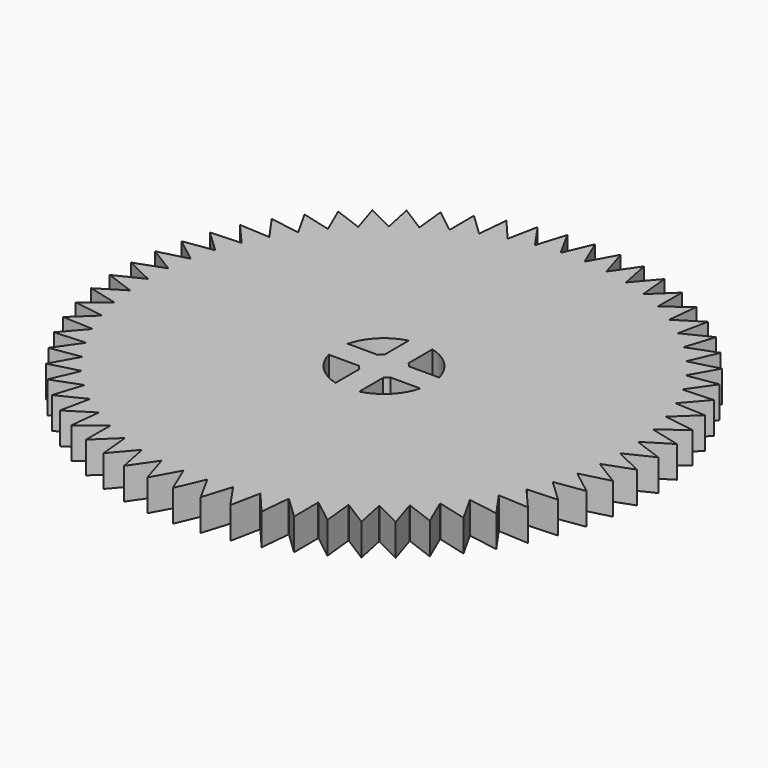
from build123d import *

# Parameters (mm, degrees)
F1_DEPTH = 4
F3_DEPTH = 4


with BuildPart() as f1:
    # F0 (on Top) → F1 (new body)
    with BuildSketch(Plane.XY):
        with BuildLine():
            ThreePointArc((29.9999936626, -0.019499772), (29.9999984157, -0.0097498865), (30, 0))
            ThreePointArc((30, 0), (29.9999984157, 0.0097498865), (29.9999936626, 0.019499772))
            ThreePointArc((29.9999936626, 0.019499772), (29.9614952151, 1.5194750652), (29.8480461561, 3.0156492935))
            ThreePointArc((29.8480461561, 3.0156492935), (29.8460797018, 3.0350496596), (29.8441006377, 3.0544487435))
            ThreePointArc((29.8441006377, 3.0544487435), (29.6540497298, 4.5428333251), (29.3898173052, 6.0198537164))
            ThreePointArc((29.3898173052, 6.0198537164), (29.3858982376, 6.0389556027), (29.3819667547, 6.0580549375))
            ThreePointArc((29.3819667547, 6.0580549375), (29.042313566, 7.5195759678), (28.6300091579, 8.9622862941))
            ThreePointArc((28.6300091579, 8.9622862941), (28.624177692, 8.9808936892), (28.6183341326, 8.99949729))
            ThreePointArc((28.6183341326, 8.99949729), (28.1325639644, 10.4191575853), (27.5764183741, 11.8127536864))
            ThreePointArc((27.5764183741, 11.8127536864), (27.5687343486, 11.8306756534), (27.5610386756, 11.848592622))
            ThreePointArc((27.5610386756, 11.848592622), (26.9341361871, 13.2118245467), (26.2398562209, 14.5420062407))
            ThreePointArc((26.2398562209, 14.5420062407), (26.2303984843, 14.5590588759), (26.2209296657, 14.5761053601))
            ThreePointArc((26.2209296657, 14.5761053601), (25.4593277248, 15.8689203098), (24.6340376347, 17.1220381325))
            ThreePointArc((24.6340376347, 17.1220381325), (24.6229032362, 17.1380464528), (24.6117584348, 17.1540475325))
            ThreePointArc((24.6117584348, 17.1540475325), (23.7232721081, 18.3631794764), (22.7754404872, 19.5263747433))
            ThreePointArc((22.7754404872, 19.5263747433), (22.7627436808, 19.5411744817), (22.7500372574, 19.5559659641))
            ThreePointArc((22.7500372574, 19.5559659641), (21.7437836169, 20.6690075723), (20.6831365001, 21.7303443258))
            ThreePointArc((20.6831365001, 21.7303443258), (20.6690075723, 21.7437836169), (20.6548699119, 21.7572137214))
            ThreePointArc((20.6548699119, 21.7572137214), (19.5411744817, 22.7627436808), (18.3785955439, 23.7113311696))
            ThreePointArc((18.3785955439, 23.7113311696), (18.3631794764, 23.7232721081), (18.3477556507, 23.7352030238))
            ThreePointArc((18.3477556507, 23.7352030238), (17.1380464528, 24.6229032362), (15.8854653271, 25.4490076691))
            ThreePointArc((15.8854653271, 25.4490076691), (15.8689203098, 25.4593277248), (15.852368588, 25.4696370243))
            ThreePointArc((15.852368588, 25.4696370243), (14.5590588759, 26.2303984843), (13.2293287396, 26.9255429119))
            ThreePointArc((13.2293287396, 26.9255429119), (13.2118245467, 26.9341361871), (13.194314772, 26.942718083))
            ThreePointArc((13.194314772, 26.942718083), (11.8306756534, 27.5687343486), (10.4374413371, 28.1257856483))
            ThreePointArc((10.4374413371, 28.1257856483), (10.4191575853, 28.1325639644), (10.4008694316, 28.1393303948))
            ThreePointArc((10.4008694316, 28.1393303948), (8.9808936892, 28.624177692), (7.5384516624, 29.0374197637))
            ThreePointArc((7.5384516624, 29.0374197637), (7.5195759678, 29.042313566), (7.5006970962, 29.0471950982))
            ThreePointArc((7.5006970962, 29.0471950982), (6.0389556027, 29.3858982376), (4.5621072724, 29.6510906584))
            ThreePointArc((4.5621072724, 29.6510906584), (4.5428333251, 29.6540497298), (4.5235574585, 29.6569962727))
            ThreePointArc((4.5235574585, 29.6569962727), (3.0350496596, 29.8460797018), (1.5389494884, 29.9605012387))
            ThreePointArc((1.5389494884, 29.9605012387), (1.5194750652, 29.9614952151), (1.5, 29.9624765332))
            ThreePointArc((1.5, 29.9624765332), (0, 30), (-1.5, 29.9624765332))
            ThreePointArc((-1.5, 29.9624765332), (-1.5194750652, 29.9614952151), (-1.5389494884, 29.9605012387))
            ThreePointArc((-1.5389494884, 29.9605012387), (-3.0350496596, 29.8460797018), (-4.5235574585, 29.6569962727))
            ThreePointArc((-4.5235574585, 29.6569962727), (-4.5428333251, 29.6540497298), (-4.5621072724, 29.6510906584))
            ThreePointArc((-4.5621072724, 29.6510906584), (-6.0389556027, 29.3858982376), (-7.5006970962, 29.0471950982))
            ThreePointArc((-7.5006970962, 29.0471950982), (-7.5195759678, 29.042313566), (-7.5384516624, 29.0374197637))
            ThreePointArc((-7.5384516624, 29.0374197637), (-8.9808936892, 28.624177692), (-10.4008694316, 28.1393303948))
            ThreePointArc((-10.4008694316, 28.1393303948), (-10.4191575853, 28.1325639644), (-10.4374413371, 28.1257856483))
            ThreePointArc((-10.4374413371, 28.1257856483), (-11.8306756534, 27.5687343486), (-13.194314772, 26.942718083))
            ThreePointArc((-13.194314772, 26.942718083), (-13.2118245467, 26.9341361871), (-13.2293287396, 26.9255429119))
            ThreePointArc((-13.2293287396, 26.9255429119), (-14.5590588759, 26.2303984843), (-15.852368588, 25.4696370243))
            ThreePointArc((-15.852368588, 25.4696370243), (-15.8689203098, 25.4593277248), (-15.8854653271, 25.4490076691))
            ThreePointArc((-15.8854653271, 25.4490076691), (-17.1380464528, 24.6229032362), (-18.3477556507, 23.7352030238))
            ThreePointArc((-18.3477556507, 23.7352030238), (-18.3631794764, 23.7232721081), (-18.3785955439, 23.7113311696))
            ThreePointArc((-18.3785955439, 23.7113311696), (-19.5411744817, 22.7627436808), (-20.6548699119, 21.7572137214))
            ThreePointArc((-20.6548699119, 21.7572137214), (-20.6690075723, 21.7437836169), (-20.6831365001, 21.7303443258))
            ThreePointArc((-20.6831365001, 21.7303443258), (-21.7437836169, 20.6690075723), (-22.7500372574, 19.5559659641))
            ThreePointArc((-22.7500372574, 19.5559659641), (-22.7627436808, 19.5411744817), (-22.7754404872, 19.5263747433))
            ThreePointArc((-22.7754404872, 19.5263747433), (-23.7232721081, 18.3631794764), (-24.6117584348, 17.1540475325))
            ThreePointArc((-24.6117584348, 17.1540475325), (-24.6229032362, 17.1380464528), (-24.6340376347, 17.1220381325))
            ThreePointArc((-24.6340376347, 17.1220381325), (-25.4593277248, 15.8689203098), (-26.2209296657, 14.5761053601))
            ThreePointArc((-26.2209296657, 14.5761053601), (-26.2303984843, 14.5590588759), (-26.2398562209, 14.5420062407))
            ThreePointArc((-26.2398562209, 14.5420062407), (-26.9341361871, 13.2118245467), (-27.5610386756, 11.848592622))
            ThreePointArc((-27.5610386756, 11.848592622), (-27.5687343486, 11.8306756534), (-27.5764183741, 11.8127536864))
            ThreePointArc((-27.5764183741, 11.8127536864), (-28.1325639644, 10.4191575853), (-28.6183341326, 8.99949729))
            ThreePointArc((-28.6183341326, 8.99949729), (-28.624177692, 8.9808936892), (-28.6300091579, 8.9622862941))
            ThreePointArc((-28.6300091579, 8.9622862941), (-29.042313566, 7.5195759678), (-29.3819667547, 6.0580549375))
            ThreePointArc((-29.3819667547, 6.0580549375), (-29.3858982376, 6.0389556027), (-29.3898173052, 6.0198537164))
            ThreePointArc((-29.3898173052, 6.0198537164), (-29.6540497298, 4.5428333251), (-29.8441006377, 3.0544487435))
            ThreePointArc((-29.8441006377, 3.0544487435), (-29.8460797018, 3.0350496596), (-29.8480461561, 3.0156492935))
            ThreePointArc((-29.8480461561, 3.0156492935), (-29.9614952151, 1.5194750652), (-29.9999936626, 0.019499772))
            ThreePointArc((-29.9999936626, 0.019499772), (-30, 0), (-29.9999936626, -0.019499772))
            ThreePointArc((-29.9999936626, -0.019499772), (-29.9614952151, -1.5194750652), (-29.8480461561, -3.0156492935))
            ThreePointArc((-29.8480461561, -3.0156492935), (-29.8460797018, -3.0350496596), (-29.8441006377, -3.0544487435))
            ThreePointArc((-29.8441006377, -3.0544487435), (-29.6540497298, -4.5428333251), (-29.3898173052, -6.0198537164))
            ThreePointArc((-29.3898173052, -6.0198537164), (-29.3858982376, -6.0389556027), (-29.3819667547, -6.0580549375))
            ThreePointArc((-29.3819667547, -6.0580549375), (-29.042313566, -7.5195759678), (-28.6300091579, -8.9622862941))
            ThreePointArc((-28.6300091579, -8.9622862941), (-28.624177692, -8.9808936892), (-28.6183341326, -8.99949729))
            ThreePointArc((-28.6183341326, -8.99949729), (-28.1325639644, -10.4191575853), (-27.5764183741, -11.8127536864))
            ThreePointArc((-27.5764183741, -11.8127536864), (-27.5687343486, -11.8306756534), (-27.5610386756, -11.848592622))
            ThreePointArc((-27.5610386756, -11.848592622), (-26.9341361871, -13.2118245467), (-26.2398562209, -14.5420062407))
            ThreePointArc((-26.2398562209, -14.5420062407), (-26.2303984843, -14.5590588759), (-26.2209296657, -14.5761053601))
            ThreePointArc((-26.2209296657, -14.5761053601), (-25.4593277248, -15.8689203098), (-24.6340376347, -17.1220381325))
            ThreePointArc((-24.6340376347, -17.1220381325), (-24.6229032362, -17.1380464528), (-24.6117584348, -17.1540475325))
            ThreePointArc((-24.6117584348, -17.1540475325), (-23.7232721081, -18.3631794764), (-22.7754404872, -19.5263747433))
            ThreePointArc((-22.7754404872, -19.5263747433), (-22.7627436808, -19.5411744817), (-22.7500372574, -19.5559659641))
            ThreePointArc((-22.7500372574, -19.5559659641), (-21.7437836169, -20.6690075723), (-20.6831365001, -21.7303443258))
            ThreePointArc((-20.6831365001, -21.7303443258), (-20.6690075723, -21.7437836169), (-20.6548699119, -21.7572137214))
            ThreePointArc((-20.6548699119, -21.7572137214), (-19.5411744817, -22.7627436808), (-18.3785955439, -23.7113311696))
            ThreePointArc((-18.3785955439, -23.7113311696), (-18.3631794764, -23.7232721081), (-18.3477556507, -23.7352030238))
            ThreePointArc((-18.3477556507, -23.7352030238), (-17.1380464528, -24.6229032362), (-15.8854653271, -25.4490076691))
            ThreePointArc((-15.8854653271, -25.4490076691), (-15.8689203098, -25.4593277248), (-15.852368588, -25.4696370243))
            ThreePointArc((-15.852368588, -25.4696370243), (-14.5590588759, -26.2303984843), (-13.2293287396, -26.9255429119))
            ThreePointArc((-13.2293287396, -26.9255429119), (-13.2118245467, -26.9341361871), (-13.194314772, -26.942718083))
            ThreePointArc((-13.194314772, -26.942718083), (-11.8306756534, -27.5687343486), (-10.4374413371, -28.1257856483))
            ThreePointArc((-10.4374413371, -28.1257856483), (-10.4191575853, -28.1325639644), (-10.4008694316, -28.1393303948))
            ThreePointArc((-10.4008694316, -28.1393303948), (-8.9808936892, -28.624177692), (-7.5384516624, -29.0374197637))
            ThreePointArc((-7.5384516624, -29.0374197637), (-7.5195759678, -29.042313566), (-7.5006970962, -29.0471950982))
            ThreePointArc((-7.5006970962, -29.0471950982), (-6.0389556027, -29.3858982376), (-4.5621072724, -29.6510906584))
            ThreePointArc((-4.5621072724, -29.6510906584), (-4.5428333251, -29.6540497298), (-4.5235574585, -29.6569962727))
            ThreePointArc((-4.5235574585, -29.6569962727), (-3.0350496596, -29.8460797018), (-1.5389494884, -29.9605012387))
            ThreePointArc((-1.5389494884, -29.9605012387), (-1.5194750652, -29.9614952151), (-1.5, -29.9624765332))
            ThreePointArc((-1.5, -29.9624765332), (0, -30), (1.5, -29.9624765332))
            ThreePointArc((1.5, -29.9624765332), (1.5194750652, -29.9614952151), (1.5389494884, -29.9605012387))
            ThreePointArc((1.5389494884, -29.9605012387), (3.0350496596, -29.8460797018), (4.5235574585, -29.6569962727))
            ThreePointArc((4.5235574585, -29.6569962727), (4.5428333251, -29.6540497298), (4.5621072724, -29.6510906584))
            ThreePointArc((4.5621072724, -29.6510906584), (6.0389556027, -29.3858982376), (7.5006970962, -29.0471950982))
            ThreePointArc((7.5006970962, -29.0471950982), (7.5195759678, -29.042313566), (7.5384516624, -29.0374197637))
            ThreePointArc((7.5384516624, -29.0374197637), (8.9808936892, -28.624177692), (10.4008694316, -28.1393303948))
            ThreePointArc((10.4008694316, -28.1393303948), (10.4191575853, -28.1325639644), (10.4374413371, -28.1257856483))
            ThreePointArc((10.4374413371, -28.1257856483), (11.8306756534, -27.5687343486), (13.194314772, -26.942718083))
            ThreePointArc((13.194314772, -26.942718083), (13.2118245467, -26.9341361871), (13.2293287396, -26.9255429119))
            ThreePointArc((13.2293287396, -26.9255429119), (14.5590588759, -26.2303984843), (15.852368588, -25.4696370243))
            ThreePointArc((15.852368588, -25.4696370243), (15.8689203098, -25.4593277248), (15.8854653271, -25.4490076691))
            ThreePointArc((15.8854653271, -25.4490076691), (17.1380464528, -24.6229032362), (18.3477556507, -23.7352030238))
            ThreePointArc((18.3477556507, -23.7352030238), (18.3631794764, -23.7232721081), (18.3785955439, -23.7113311696))
            ThreePointArc((18.3785955439, -23.7113311696), (19.5411744817, -22.7627436808), (20.6548699119, -21.7572137214))
            ThreePointArc((20.6548699119, -21.7572137214), (20.6690075723, -21.7437836169), (20.6831365001, -21.7303443258))
            ThreePointArc((20.6831365001, -21.7303443258), (21.7437836169, -20.6690075723), (22.7500372574, -19.5559659641))
            ThreePointArc((22.7500372574, -19.5559659641), (22.7627436808, -19.5411744817), (22.7754404872, -19.5263747433))
            ThreePointArc((22.7754404872, -19.5263747433), (23.7232721081, -18.3631794764), (24.6117584348, -17.1540475325))
            ThreePointArc((24.6117584348, -17.1540475325), (24.6229032362, -17.1380464528), (24.6340376347, -17.1220381325))
            ThreePointArc((24.6340376347, -17.1220381325), (25.4593277248, -15.8689203098), (26.2209296657, -14.5761053601))
            ThreePointArc((26.2209296657, -14.5761053601), (26.2303984843, -14.5590588759), (26.2398562209, -14.5420062407))
            ThreePointArc((26.2398562209, -14.5420062407), (26.9341361871, -13.2118245467), (27.5610386756, -11.848592622))
            ThreePointArc((27.5610386756, -11.848592622), (27.5687343486, -11.8306756534), (27.5764183741, -11.8127536864))
            ThreePointArc((27.5764183741, -11.8127536864), (28.1325639644, -10.4191575853), (28.6183341326, -8.99949729))
            ThreePointArc((28.6183341326, -8.99949729), (28.624177692, -8.9808936892), (28.6300091579, -8.9622862941))
            ThreePointArc((28.6300091579, -8.9622862941), (29.042313566, -7.5195759678), (29.3819667547, -6.0580549375))
            ThreePointArc((29.3819667547, -6.0580549375), (29.3858982376, -6.0389556027), (29.3898173052, -6.0198537164))
            ThreePointArc((29.3898173052, -6.0198537164), (29.6540497298, -4.5428333251), (29.8441006377, -3.0544487435))
            ThreePointArc((29.8441006377, -3.0544487435), (29.8460797018, -3.0350496596), (29.8480461561, -3.0156492935))
            ThreePointArc((29.8480461561, -3.0156492935), (29.9614952151, -1.5194750652), (29.9999936626, -0.019499772))
        make_face()
        with BuildLine():
            ThreePointArc((29.8480461561, 3.0156492935), (29.9614952151, 1.5194750652), (29.9999936626, 0.019499772))
            Line((29.9999936626, 0.019499772), (33.4570029902, 1.6967471561))
            Line((33.4570029902, 1.6967471561), (29.8480461561, 3.0156492935))
        make_face()
        with BuildLine():
            Line((33.4570029902, -1.6967471561), (29.9999936626, -0.019499772))
            ThreePointArc((29.9999936626, -0.019499772), (29.9614952151, -1.5194750652), (29.8480461561, -3.0156492935))
            Line((29.8480461561, -3.0156492935), (33.4570029902, -1.6967471561))
        make_face()
        with BuildLine():
            ThreePointArc((29.3898173052, 6.0198537164), (29.6540497298, 4.5428333251), (29.8441006377, 3.0544487435))
            Line((29.8441006377, 3.0544487435), (33.113688865, 5.0728305464))
            Line((33.113688865, 5.0728305464), (29.3898173052, 6.0198537164))
        make_face()
        with BuildLine():
            Line((33.113688865, -5.0728305464), (29.8441006377, -3.0544487435))
            ThreePointArc((29.8441006377, -3.0544487435), (29.6540497298, -4.5428333251), (29.3898173052, -6.0198537164))
            Line((29.3898173052, -6.0198537164), (33.113688865, -5.0728305464))
        make_face()
        with BuildLine():
            ThreePointArc((28.6300091579, 8.9622862941), (29.042313566, 7.5195759678), (29.3819667547, 6.0580549375))
            Line((29.3819667547, 6.0580549375), (32.430583482, 8.3968598307))
            Line((32.430583482, 8.3968598307), (28.6300091579, 8.9622862941))
        make_face()
        with BuildLine():
            Line((32.430583482, -8.3968598307), (29.3819667547, -6.0580549375))
            ThreePointArc((29.3819667547, -6.0580549375), (29.042313566, -7.5195759678), (28.6300091579, -8.9622862941))
            Line((28.6300091579, -8.9622862941), (32.430583482, -8.3968598307))
        make_face()
        with BuildLine():
            ThreePointArc((27.5764183741, 11.8127536864), (28.1325639644, 10.4191575853), (28.6183341326, 8.99949729))
            Line((28.6183341326, 8.99949729), (31.4146964269, 11.6347259703))
            Line((31.4146964269, 11.6347259703), (27.5764183741, 11.8127536864))
        make_face()
        with BuildLine():
            Line((31.4146964269, -11.6347259703), (28.6183341326, -8.99949729))
            ThreePointArc((28.6183341326, -8.99949729), (28.1325639644, -10.4191575853), (27.5764183741, -11.8127536864))
            Line((27.5764183741, -11.8127536864), (31.4146964269, -11.6347259703))
        make_face()
        with BuildLine():
            ThreePointArc((26.2398562209, 14.5420062407), (26.9341361871, 13.2118245467), (27.5610386756, 11.848592622))
            Line((27.5610386756, 11.848592622), (30.0764520756, 14.7532040772))
            Line((30.0764520756, 14.7532040772), (26.2398562209, 14.5420062407))
        make_face()
        with BuildLine():
            Line((30.0764520756, -14.7532040772), (27.5610386756, -11.848592622))
            ThreePointArc((27.5610386756, -11.848592622), (26.9341361871, -13.2118245467), (26.2398562209, -14.5420062407))
            Line((26.2398562209, -14.5420062407), (30.0764520756, -14.7532040772))
        make_face()
        with BuildLine():
            ThreePointArc((24.6340376347, 17.1220381325), (25.4593277248, 15.8689203098), (26.2209296657, 14.5761053601))
            Line((26.2209296657, 14.5761053601), (28.4295826261, 17.720294346))
            Line((28.4295826261, 17.720294346), (24.6340376347, 17.1220381325))
        make_face()
        with BuildLine():
            Line((28.4295826261, -17.720294346), (26.2209296657, -14.5761053601))
            ThreePointArc((26.2209296657, -14.5761053601), (25.4593277248, -15.8689203098), (24.6340376347, -17.1220381325))
            Line((24.6340376347, -17.1220381325), (28.4295826261, -17.720294346))
        make_face()
        with BuildLine():
            ThreePointArc((22.7754404872, 19.5263747433), (23.7232721081, 18.3631794764), (24.6117584348, 17.1540475325))
            Line((24.6117584348, 17.1540475325), (26.4909871874, 20.5055504153))
            Line((26.4909871874, 20.5055504153), (22.7754404872, 19.5263747433))
        make_face()
        with BuildLine():
            Line((26.4909871874, -20.5055504153), (24.6117584348, -17.1540475325))
            ThreePointArc((24.6117584348, -17.1540475325), (23.7232721081, -18.3631794764), (22.7754404872, -19.5263747433))
            Line((22.7754404872, -19.5263747433), (26.4909871874, -20.5055504153))
        make_face()
        with BuildLine():
            ThreePointArc((20.6831365001, 21.7303443258), (21.7437836169, 20.6690075723), (22.7500372574, 19.5559659641))
            Line((22.7500372574, 19.5559659641), (24.2805583722, 23.080391789))
            Line((24.2805583722, 23.080391789), (20.6831365001, 21.7303443258))
        make_face()
        with BuildLine():
            Line((24.2805583722, -23.080391789), (22.7500372574, -19.5559659641))
            ThreePointArc((22.7500372574, -19.5559659641), (21.7437836169, -20.6690075723), (20.6831365001, -21.7303443258))
            Line((20.6831365001, -21.7303443258), (24.2805583722, -23.080391789))
        make_face()
        with BuildLine():
            ThreePointArc((18.3785955439, 23.7113311696), (19.5411744817, 22.7627436808), (20.6548699119, 21.7572137214))
            Line((20.6548699119, 21.7572137214), (21.8209781712, 25.4183971102))
            Line((21.8209781712, 25.4183971102), (18.3785955439, 23.7113311696))
        make_face()
        with BuildLine():
            Line((21.8209781712, -25.4183971102), (20.6548699119, -21.7572137214))
            ThreePointArc((20.6548699119, -21.7572137214), (19.5411744817, -22.7627436808), (18.3785955439, -23.7113311696))
            Line((18.3785955439, -23.7113311696), (21.8209781712, -25.4183971102))
        make_face()
        with BuildLine():
            ThreePointArc((15.8854653271, 25.4490076691), (17.1380464528, 24.6229032362), (18.3477556507, 23.7352030238))
            Line((18.3477556507, 23.7352030238), (19.1374852057, 27.4955752804))
            Line((19.1374852057, 27.4955752804), (15.8854653271, 25.4490076691))
        make_face()
        with BuildLine():
            Line((19.1374852057, -27.4955752804), (18.3477556507, -23.7352030238))
            ThreePointArc((18.3477556507, -23.7352030238), (17.1380464528, -24.6229032362), (15.8854653271, -25.4490076691))
            Line((15.8854653271, -25.4490076691), (19.1374852057, -27.4955752804))
        make_face()
        with BuildLine():
            ThreePointArc((13.2293287396, 26.9255429119), (14.5590588759, 26.2303984843), (15.852368588, 25.4696370243))
            Line((15.852368588, 25.4696370243), (16.2576157448, 29.2906116408))
            Line((16.2576157448, 29.2906116408), (13.2293287396, 26.9255429119))
        make_face()
        with BuildLine():
            Line((16.2576157448, -29.2906116408), (15.852368588, -25.4696370243))
            ThreePointArc((15.852368588, -25.4696370243), (14.5590588759, -26.2303984843), (13.2293287396, -26.9255429119))
            Line((13.2293287396, -26.9255429119), (16.2576157448, -29.2906116408))
        make_face()
        with BuildLine():
            ThreePointArc((10.4374413371, 28.1257856483), (11.8306756534, 27.5687343486), (13.194314772, 26.942718083))
            Line((13.194314772, 26.942718083), (13.2109211463, 30.7850866893))
            Line((13.2109211463, 30.7850866893), (10.4374413371, 28.1257856483))
        make_face()
        with BuildLine():
            Line((13.2109211463, -30.7850866893), (13.194314772, -26.942718083))
            ThreePointArc((13.194314772, -26.942718083), (11.8306756534, -27.5687343486), (10.4374413371, -28.1257856483))
            Line((10.4374413371, -28.1257856483), (13.2109211463, -30.7850866893))
        make_face()
        with BuildLine():
            ThreePointArc((7.5384516624, 29.0374197637), (8.9808936892, 28.624177692), (10.4008694316, 28.1393303948))
            Line((10.4008694316, 28.1393303948), (10.0286646196, 31.9636650894))
            Line((10.0286646196, 31.9636650894), (7.5384516624, 29.0374197637))
        make_face()
        with BuildLine():
            Line((10.0286646196, -31.9636650894), (10.4008694316, -28.1393303948))
            ThreePointArc((10.4008694316, -28.1393303948), (8.9808936892, -28.624177692), (7.5384516624, -29.0374197637))
            Line((7.5384516624, -29.0374197637), (10.0286646196, -31.9636650894))
        make_face()
        with BuildLine():
            ThreePointArc((4.5621072724, 29.6510906584), (6.0389556027, 29.3858982376), (7.5006970962, 29.0471950982))
            Line((7.5006970962, 29.0471950982), (6.743500423, 32.814253032))
            Line((6.743500423, 32.814253032), (4.5621072724, 29.6510906584))
        make_face()
        with BuildLine():
            Line((6.743500423, -32.814253032), (7.5006970962, -29.0471950982))
            ThreePointArc((7.5006970962, -29.0471950982), (6.0389556027, -29.3858982376), (4.5621072724, -29.6510906584))
            Line((4.5621072724, -29.6510906584), (6.743500423, -32.814253032))
        make_face()
        with BuildLine():
            ThreePointArc((1.5389494884, 29.9605012387), (3.0350496596, 29.8460797018), (4.5235574585, 29.6569962727))
            Line((4.5235574585, 29.6569962727), (3.3891387866, 33.3281223336))
            Line((3.3891387866, 33.3281223336), (1.5389494884, 29.9605012387))
        make_face()
        with BuildLine():
            Line((3.3891387866, -33.3281223336), (4.5235574585, -29.6569962727))
            ThreePointArc((4.5235574585, -29.6569962727), (3.0350496596, -29.8460797018), (1.5389494884, -29.9605012387))
            Line((1.5389494884, -29.9605012387), (3.3891387866, -33.3281223336))
        make_face()
        with BuildLine():
            ThreePointArc((-1.5, 29.9624765332), (0, 30), (1.5, 29.9624765332))
            Line((1.5, 29.9624765332), (0, 33.5))
            Line((0, 33.5), (-1.5, 29.9624765332))
        make_face()
        with BuildLine():
            Line((0, -33.5), (1.5, -29.9624765332))
            ThreePointArc((1.5, -29.9624765332), (0, -30), (-1.5, -29.9624765332))
            Line((-1.5, -29.9624765332), (0, -33.5))
        make_face()
        with BuildLine():
            ThreePointArc((-4.5235574585, 29.6569962727), (-3.0350496596, 29.8460797018), (-1.5389494884, 29.9605012387))
            Line((-1.5389494884, 29.9605012387), (-3.3891387866, 33.3281223336))
            Line((-3.3891387866, 33.3281223336), (-4.5235574585, 29.6569962727))
        make_face()
        with BuildLine():
            Line((-3.3891387866, -33.3281223336), (-1.5389494884, -29.9605012387))
            ThreePointArc((-1.5389494884, -29.9605012387), (-3.0350496596, -29.8460797018), (-4.5235574585, -29.6569962727))
            Line((-4.5235574585, -29.6569962727), (-3.3891387866, -33.3281223336))
        make_face()
        with BuildLine():
            ThreePointArc((-7.5006970962, 29.0471950982), (-6.0389556027, 29.3858982376), (-4.5621072724, 29.6510906584))
            Line((-4.5621072724, 29.6510906584), (-6.743500423, 32.814253032))
            Line((-6.743500423, 32.814253032), (-7.5006970962, 29.0471950982))
        make_face()
        with BuildLine():
            Line((-6.743500423, -32.814253032), (-4.5621072724, -29.6510906584))
            ThreePointArc((-4.5621072724, -29.6510906584), (-6.0389556027, -29.3858982376), (-7.5006970962, -29.0471950982))
            Line((-7.5006970962, -29.0471950982), (-6.743500423, -32.814253032))
        make_face()
        with BuildLine():
            ThreePointArc((-10.4008694316, 28.1393303948), (-8.9808936892, 28.624177692), (-7.5384516624, 29.0374197637))
            Line((-7.5384516624, 29.0374197637), (-10.0286646196, 31.9636650894))
            Line((-10.0286646196, 31.9636650894), (-10.4008694316, 28.1393303948))
        make_face()
        with BuildLine():
            Line((-10.0286646196, -31.9636650894), (-7.5384516624, -29.0374197637))
            ThreePointArc((-7.5384516624, -29.0374197637), (-8.9808936892, -28.624177692), (-10.4008694316, -28.1393303948))
            Line((-10.4008694316, -28.1393303948), (-10.0286646196, -31.9636650894))
        make_face()
        with BuildLine():
            ThreePointArc((-13.194314772, 26.942718083), (-11.8306756534, 27.5687343486), (-10.4374413371, 28.1257856483))
            Line((-10.4374413371, 28.1257856483), (-13.2109211463, 30.7850866893))
            Line((-13.2109211463, 30.7850866893), (-13.194314772, 26.942718083))
        make_face()
        with BuildLine():
            Line((-13.2109211463, -30.7850866893), (-10.4374413371, -28.1257856483))
            ThreePointArc((-10.4374413371, -28.1257856483), (-11.8306756534, -27.5687343486), (-13.194314772, -26.942718083))
            Line((-13.194314772, -26.942718083), (-13.2109211463, -30.7850866893))
        make_face()
        with BuildLine():
            ThreePointArc((-15.852368588, 25.4696370243), (-14.5590588759, 26.2303984843), (-13.2293287396, 26.9255429119))
            Line((-13.2293287396, 26.9255429119), (-16.2576157448, 29.2906116408))
            Line((-16.2576157448, 29.2906116408), (-15.852368588, 25.4696370243))
        make_face()
        with BuildLine():
            Line((-16.2576157448, -29.2906116408), (-13.2293287396, -26.9255429119))
            ThreePointArc((-13.2293287396, -26.9255429119), (-14.5590588759, -26.2303984843), (-15.852368588, -25.4696370243))
            Line((-15.852368588, -25.4696370243), (-16.2576157448, -29.2906116408))
        make_face()
        with BuildLine():
            ThreePointArc((-18.3477556507, 23.7352030238), (-17.1380464528, 24.6229032362), (-15.8854653271, 25.4490076691))
            Line((-15.8854653271, 25.4490076691), (-19.1374852057, 27.4955752804))
            Line((-19.1374852057, 27.4955752804), (-18.3477556507, 23.7352030238))
        make_face()
        with BuildLine():
            Line((-19.1374852057, -27.4955752804), (-15.8854653271, -25.4490076691))
            ThreePointArc((-15.8854653271, -25.4490076691), (-17.1380464528, -24.6229032362), (-18.3477556507, -23.7352030238))
            Line((-18.3477556507, -23.7352030238), (-19.1374852057, -27.4955752804))
        make_face()
        with BuildLine():
            ThreePointArc((-20.6548699119, 21.7572137214), (-19.5411744817, 22.7627436808), (-18.3785955439, 23.7113311696))
            Line((-18.3785955439, 23.7113311696), (-21.8209781712, 25.4183971102))
            Line((-21.8209781712, 25.4183971102), (-20.6548699119, 21.7572137214))
        make_face()
        with BuildLine():
            Line((-21.8209781712, -25.4183971102), (-18.3785955439, -23.7113311696))
            ThreePointArc((-18.3785955439, -23.7113311696), (-19.5411744817, -22.7627436808), (-20.6548699119, -21.7572137214))
            Line((-20.6548699119, -21.7572137214), (-21.8209781712, -25.4183971102))
        make_face()
        with BuildLine():
            ThreePointArc((-22.7500372574, 19.5559659641), (-21.7437836169, 20.6690075723), (-20.6831365001, 21.7303443258))
            Line((-20.6831365001, 21.7303443258), (-24.2805583722, 23.080391789))
            Line((-24.2805583722, 23.080391789), (-22.7500372574, 19.5559659641))
        make_face()
        with BuildLine():
            Line((-24.2805583722, -23.080391789), (-20.6831365001, -21.7303443258))
            ThreePointArc((-20.6831365001, -21.7303443258), (-21.7437836169, -20.6690075723), (-22.7500372574, -19.5559659641))
            Line((-22.7500372574, -19.5559659641), (-24.2805583722, -23.080391789))
        make_face()
        with BuildLine():
            ThreePointArc((-24.6117584348, 17.1540475325), (-23.7232721081, 18.3631794764), (-22.7754404872, 19.5263747433))
            Line((-22.7754404872, 19.5263747433), (-26.4909871874, 20.5055504153))
            Line((-26.4909871874, 20.5055504153), (-24.6117584348, 17.1540475325))
        make_face()
        with BuildLine():
            Line((-26.4909871874, -20.5055504153), (-22.7754404872, -19.5263747433))
            ThreePointArc((-22.7754404872, -19.5263747433), (-23.7232721081, -18.3631794764), (-24.6117584348, -17.1540475325))
            Line((-24.6117584348, -17.1540475325), (-26.4909871874, -20.5055504153))
        make_face()
        with BuildLine():
            ThreePointArc((-26.2209296657, 14.5761053601), (-25.4593277248, 15.8689203098), (-24.6340376347, 17.1220381325))
            Line((-24.6340376347, 17.1220381325), (-28.4295826261, 17.720294346))
            Line((-28.4295826261, 17.720294346), (-26.2209296657, 14.5761053601))
        make_face()
        with BuildLine():
            Line((-28.4295826261, -17.720294346), (-24.6340376347, -17.1220381325))
            ThreePointArc((-24.6340376347, -17.1220381325), (-25.4593277248, -15.8689203098), (-26.2209296657, -14.5761053601))
            Line((-26.2209296657, -14.5761053601), (-28.4295826261, -17.720294346))
        make_face()
        with BuildLine():
            ThreePointArc((-27.5610386756, 11.848592622), (-26.9341361871, 13.2118245467), (-26.2398562209, 14.5420062407))
            Line((-26.2398562209, 14.5420062407), (-30.0764520756, 14.7532040772))
            Line((-30.0764520756, 14.7532040772), (-27.5610386756, 11.848592622))
        make_face()
        with BuildLine():
            Line((-30.0764520756, -14.7532040772), (-26.2398562209, -14.5420062407))
            ThreePointArc((-26.2398562209, -14.5420062407), (-26.9341361871, -13.2118245467), (-27.5610386756, -11.848592622))
            Line((-27.5610386756, -11.848592622), (-30.0764520756, -14.7532040772))
        make_face()
        with BuildLine():
            ThreePointArc((-28.6183341326, 8.99949729), (-28.1325639644, 10.4191575853), (-27.5764183741, 11.8127536864))
            Line((-27.5764183741, 11.8127536864), (-31.4146964269, 11.6347259703))
            Line((-31.4146964269, 11.6347259703), (-28.6183341326, 8.99949729))
        make_face()
        with BuildLine():
            Line((-31.4146964269, -11.6347259703), (-27.5764183741, -11.8127536864))
            ThreePointArc((-27.5764183741, -11.8127536864), (-28.1325639644, -10.4191575853), (-28.6183341326, -8.99949729))
            Line((-28.6183341326, -8.99949729), (-31.4146964269, -11.6347259703))
        make_face()
        with BuildLine():
            ThreePointArc((-29.3819667547, 6.0580549375), (-29.042313566, 7.5195759678), (-28.6300091579, 8.9622862941))
            Line((-28.6300091579, 8.9622862941), (-32.430583482, 8.3968598307))
            Line((-32.430583482, 8.3968598307), (-29.3819667547, 6.0580549375))
        make_face()
        with BuildLine():
            Line((-32.430583482, -8.3968598307), (-28.6300091579, -8.9622862941))
            ThreePointArc((-28.6300091579, -8.9622862941), (-29.042313566, -7.5195759678), (-29.3819667547, -6.0580549375))
            Line((-29.3819667547, -6.0580549375), (-32.430583482, -8.3968598307))
        make_face()
        with BuildLine():
            ThreePointArc((-29.8441006377, 3.0544487435), (-29.6540497298, 4.5428333251), (-29.3898173052, 6.0198537164))
            Line((-29.3898173052, 6.0198537164), (-33.113688865, 5.0728305464))
            Line((-33.113688865, 5.0728305464), (-29.8441006377, 3.0544487435))
        make_face()
        with BuildLine():
            Line((-33.113688865, -5.0728305464), (-29.3898173052, -6.0198537164))
            ThreePointArc((-29.3898173052, -6.0198537164), (-29.6540497298, -4.5428333251), (-29.8441006377, -3.0544487435))
            Line((-29.8441006377, -3.0544487435), (-33.113688865, -5.0728305464))
        make_face()
        with BuildLine():
            ThreePointArc((-29.9999936626, 0.019499772), (-29.9614952151, 1.5194750652), (-29.8480461561, 3.0156492935))
            Line((-29.8480461561, 3.0156492935), (-33.4570029902, 1.6967471561))
            Line((-33.4570029902, 1.6967471561), (-29.9999936626, 0.019499772))
        make_face()
        with BuildLine():
            Line((-33.4570029902, -1.6967471561), (-29.8480461561, -3.0156492935))
            ThreePointArc((-29.8480461561, -3.0156492935), (-29.9614952151, -1.5194750652), (-29.9999936626, -0.019499772))
            Line((-29.9999936626, -0.019499772), (-33.4570029902, -1.6967471561))
        make_face()
    extrude(amount=F1_DEPTH)

    # F2 (on face) → F3 (cut)
    with BuildSketch(Plane.XY.offset(4)):
        with BuildLine():
            Line((-1.5, 2), (-1.5, 5.8094750193))
            ThreePointArc((-1.5, 5.8094750193), (-4.2426406871, 4.2426406871), (-5.8094750193, 1.5))
            Line((-5.8094750193, 1.5), (-2, 1.5))
            ThreePointArc((-2, 1.5), (-1.767766953, 1.767766953), (-1.5, 2))
        make_face()
        with BuildLine():
            Line((2, 1.5), (5.8094750193, 1.5))
            ThreePointArc((5.8094750193, 1.5), (4.2426406871, 4.2426406871), (1.5, 5.8094750193))
            Line((1.5, 5.8094750193), (1.5, 2))
            ThreePointArc((1.5, 2), (1.767766953, 1.767766953), (2, 1.5))
        make_face()
        with BuildLine():
            ThreePointArc((1.5, -5.8094750193), (4.2426406871, -4.2426406871), (5.8094750193, -1.5))
            Line((5.8094750193, -1.5), (2, -1.5))
            ThreePointArc((2, -1.5), (1.767766953, -1.767766953), (1.5, -2))
            Line((1.5, -2), (1.5, -5.8094750193))
        make_face()
        with BuildLine():
            ThreePointArc((-5.8094750193, -1.5), (-4.2426406871, -4.2426406871), (-1.5, -5.8094750193))
            Line((-1.5, -5.8094750193), (-1.5, -2))
            ThreePointArc((-1.5, -2), (-1.767766953, -1.767766953), (-2, -1.5))
            Line((-2, -1.5), (-5.8094750193, -1.5))
        make_face()
    extrude(amount=-F3_DEPTH, mode=Mode.SUBTRACT)


solid = f1.part
